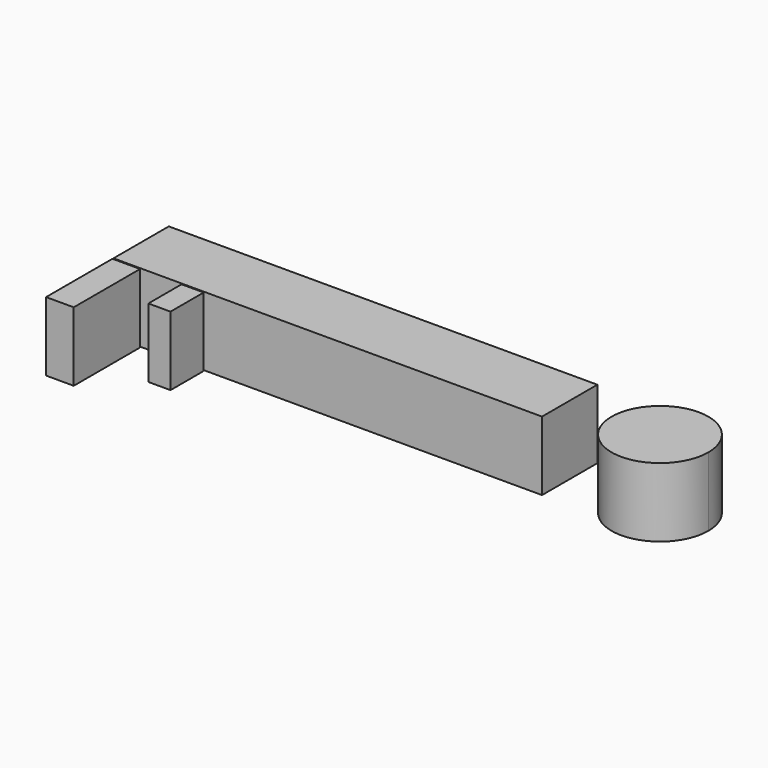
from build123d import *

# Parameters (mm, degrees)
F1_W     = 8
F1_H     = 15
F1_W_2   = 10
F1_H_2   = 30
F0_W     = 155
F0_H     = 25
F2_DEPTH = 25


with BuildPart() as f2:
    # F1 (on Top) + F0 (on Top) → F2 (new body)
    with BuildSketch(Plane.XY):
        with Locations((-69.726757, 15.450001)):
            Rectangle(F1_W, F1_H)
        with Locations((-93.726757, 7.950001)):
            Rectangle(F1_W_2, F1_H_2)
        with BuildLine():
            ThreePointArc((101.200567, 48.329434), (73.089683, 28.709756), (106.665499, 35.624823))
            ThreePointArc((106.665499, 35.624823), (105.241314, 42.53989), (101.200567, 48.329434))
        make_face()
    with BuildSketch(Plane.XY):
        with Locations((-21.183601, 35.865814)):
            Rectangle(F0_W, F0_H)
    extrude(amount=F2_DEPTH)


solid = f2.part
